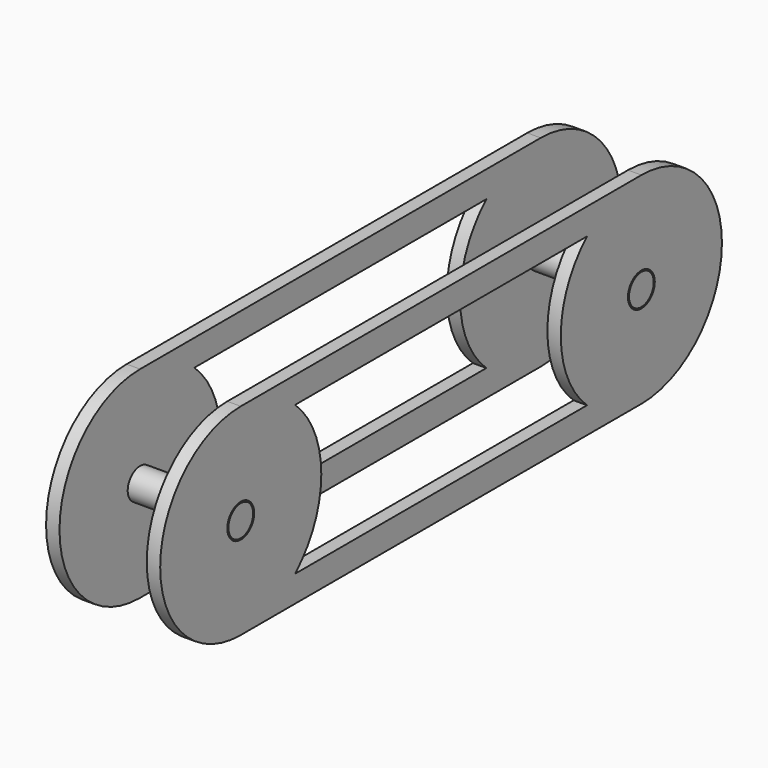
from build123d import *

# Parameters (mm, degrees)
F0_R     = 2.3
F1_DEPTH = 2
F2_DEPTH = 17
F3_R     = 2.5
F4_DEPTH = 2


with BuildPart() as f1:
    # F0 (on Right) → F1 (new body)
    with BuildSketch(Plane.YZ):
        with BuildLine():
            ThreePointArc((10.1162621493, -11.0752535017), (13.7248667068, -6.0521098701), (15, 0))
            ThreePointArc((15, 0), (13.7248667068, 6.0521098701), (10.1162621493, 11.0752535017))
            Line((10.1162621493, 11.0752535017), (10.1162621493, 7.3424274001))
            ThreePointArc((10.1162621493, 7.3424274001), (11.8891395161, 3.8598395778), (12.5, 0))
            ThreePointArc((12.5, 0), (11.8891395161, -3.8598395778), (10.1162621493, -7.3424274001))
            Line((10.1162621493, -7.3424274001), (10.1162621493, -11.0752535017))
        make_face()
        with BuildLine():
            ThreePointArc((12.5, 0), (11.8891395161, 3.8598395778), (10.1162621493, 7.3424274001))
            Line((10.1162621493, 7.3424274001), (10.1162621493, -7.3424274001))
            ThreePointArc((10.1162621493, -7.3424274001), (11.8891395161, -3.8598395778), (12.5, 0))
        make_face()
        with BuildLine():
            Line((10.1162621493, -7.3424274001), (10.1162621493, 7.3424274001))
            ThreePointArc((10.1162621493, 7.3424274001), (-12.5, 0), (10.1162621493, -7.3424274001))
        make_face()
        Circle(F0_R, mode=Mode.SUBTRACT)
        with BuildLine():
            Line((10.1162621493, 7.3424274001), (10.1162621493, 11.0752535017))
            ThreePointArc((10.1162621493, 11.0752535017), (5.4254583896, 13.9844342489), (0, 15))
            ThreePointArc((0, 15), (-15, 0), (0, -15))
            ThreePointArc((0, -15), (5.4254583896, -13.9844342489), (10.1162621493, -11.0752535017))
            Line((10.1162621493, -11.0752535017), (10.1162621493, -7.3424274001))
            ThreePointArc((10.1162621493, -7.3424274001), (-12.5, 0), (10.1162621493, 7.3424274001))
        make_face()
        with BuildLine():
            ThreePointArc((0, 15), (5.4254583896, 13.9844342489), (10.1162621493, 11.0752535017))
            Line((10.1162621493, 11.0752535017), (64.4837378507, 11.0752535017))
            ThreePointArc((64.4837378507, 11.0752535017), (69.1745416104, 13.9844342489), (74.6, 15))
            Line((74.6, 15), (0, 15))
        make_face()
        with BuildLine():
            Line((64.4837378507, -11.0752535017), (10.1162621493, -11.0752535017))
            ThreePointArc((10.1162621493, -11.0752535017), (5.4254583896, -13.9844342489), (0, -15))
            Line((0, -15), (74.6, -15))
            ThreePointArc((74.6, -15), (69.1745416104, -13.9844342489), (64.4837378507, -11.0752535017))
        make_face()
        with BuildLine():
            ThreePointArc((74.6, 15), (69.1745416104, 13.9844342489), (64.4837378507, 11.0752535017))
            Line((64.4837378507, 11.0752535017), (64.4837378507, 7.3424274001))
            ThreePointArc((64.4837378507, 7.3424274001), (78.4598395778, 11.8891395161), (87.1, 0))
            ThreePointArc((87.1, 0), (78.4598395778, -11.8891395161), (64.4837378507, -7.3424274001))
            Line((64.4837378507, -7.3424274001), (64.4837378507, -11.0752535017))
            ThreePointArc((64.4837378507, -11.0752535017), (69.1745416104, -13.9844342489), (74.6, -15))
            ThreePointArc((74.6, -15), (85.2066017178, -10.6066017178), (89.6, 0))
            ThreePointArc((89.6, 0), (85.2066017178, 10.6066017178), (74.6, 15))
        make_face()
        with BuildLine():
            ThreePointArc((87.1, 0), (78.4598395778, 11.8891395161), (64.4837378507, 7.3424274001))
            Line((64.4837378507, 7.3424274001), (64.4837378507, -7.3424274001))
            ThreePointArc((64.4837378507, -7.3424274001), (78.4598395778, -11.8891395161), (87.1, 0))
        make_face()
        with Locations((74.6, 0)):
            Circle(F0_R, mode=Mode.SUBTRACT)
        with BuildLine():
            Line((64.4837378507, -7.3424274001), (64.4837378507, 7.3424274001))
            ThreePointArc((64.4837378507, 7.3424274001), (62.1, 0), (64.4837378507, -7.3424274001))
        make_face()
        with BuildLine():
            Line((64.4837378507, 7.3424274001), (64.4837378507, 11.0752535017))
            ThreePointArc((64.4837378507, 11.0752535017), (59.6, 0), (64.4837378507, -11.0752535017))
            Line((64.4837378507, -11.0752535017), (64.4837378507, -7.3424274001))
            ThreePointArc((64.4837378507, -7.3424274001), (62.1, 0), (64.4837378507, 7.3424274001))
        make_face()
    extrude(amount=F1_DEPTH)

    # F0 (on Right) → F2 (join)
    with BuildSketch(Plane.YZ):
        Circle(F0_R)
        with Locations((74.6, 0)):
            Circle(F0_R)
    extrude(amount=F2_DEPTH)


with BuildPart() as f4:
    # F3 (on face) → F4 (new body)
    with BuildSketch(Plane.YZ.offset(17)):
        with BuildLine():
            ThreePointArc((74.6, -15), (89.6, 0), (74.6, 15))
            Line((74.6, 15), (0, 15))
            ThreePointArc((0, 15), (-15, 0), (0, -15))
            Line((0, -15), (74.6, -15))
        make_face()
        Circle(F3_R, mode=Mode.SUBTRACT)
        with BuildLine():
            Line((64.4837378507, -11.0752535017), (10.1162621493, -11.0752535017))
            ThreePointArc((10.1162621493, -11.0752535017), (15, 0), (10.1162621493, 11.0752535017))
            Line((10.1162621493, 11.0752535017), (64.4837378507, 11.0752535017))
            ThreePointArc((64.4837378507, 11.0752535017), (59.6, 0), (64.4837378507, -11.0752535017))
        make_face(mode=Mode.SUBTRACT)
        with Locations((74.6, 0)):
            Circle(F3_R, mode=Mode.SUBTRACT)
    extrude(amount=-F4_DEPTH)


solid = Compound([f1.part, f4.part])
